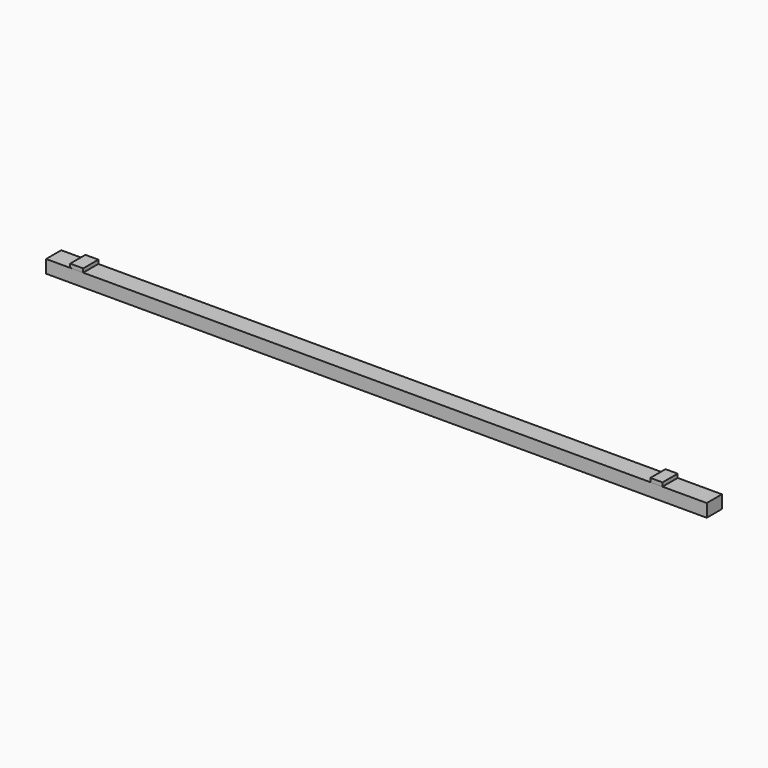
from build123d import *

# Parameters (mm, degrees)
SKETCH014_W  = 2440
SKETCH014_H  = 48
PAD014_DEPTH = 70
SKETCH019_W  = 45
SKETCH019_H  = 70
PAD019_DEPTH = 13.95
SKETCH020_W  = 48
SKETCH020_H  = 70
PAD020_DEPTH = 13.95


with BuildPart() as part:
    # Sketch014 → Pad014 (new body)
    with BuildSketch(Plane.XZ):
        with Locations((1414.96, 859)):
            Rectangle(SKETCH014_W, SKETCH014_H)
    extrude(amount=PAD014_DEPTH)

    # Sketch019 (on Face1 of Pad014) → Pad019 (join)
    with BuildSketch(Plane(origin=(0, 0, 883), x_dir=(-1, 0, 0), z_dir=(0, 0, 1))):
        with Locations((-2449.118553, 35.037096)):
            Rectangle(SKETCH019_W, SKETCH019_H)
    extrude(amount=PAD019_DEPTH)

    # Sketch020 (on Face1 of Pad019) → Pad020 (join)
    with BuildSketch(Plane(origin=(0, 0, 883), x_dir=(-1, 0, 0), z_dir=(0, 0, 1))):
        with Locations((-308.031693, 34.93343)):
            Rectangle(SKETCH020_W, SKETCH020_H)
    extrude(amount=PAD020_DEPTH)


with BuildPart() as part_1:
    # Body011 placement: moved
    add(part.part.moved(Location((-0.005029, -844.254652, -11.393262))))


solid = part_1.part
